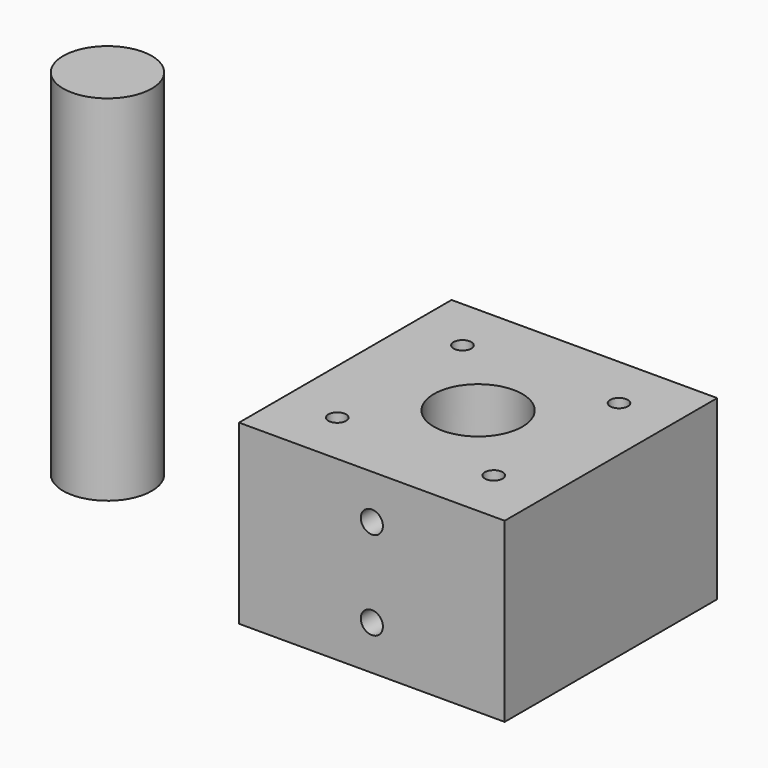
from build123d import *

# Parameters (mm, degrees)
F0_W     = 60
F0_H     = 60
F0_R     = 10
F1_DEPTH = 40
F2_R     = 2
F3_DEPTH = 20
F4_R     = 2.5
F5_DEPTH = 25
F6_DEPTH = 80
F7_R     = 2
F8_DEPTH = 20


with BuildPart() as f1:
    # F0 (on Top) → F1 (new body)
    with BuildSketch(Plane.XY):
        Rectangle(F0_W, F0_H)
        Circle(F0_R, mode=Mode.SUBTRACT)
    extrude(amount=F1_DEPTH)

    # F2 (on face) → F3 (cut)
    with BuildSketch(Plane(origin=(0, 0, 0), x_dir=(1, 0, 0), z_dir=(0, 0, -1))):
        with Locations((-25, 25)):
            Circle(F2_R)
        with Locations((25, 25)):
            Circle(F2_R)
        with Locations((-25, -25)):
            Circle(F2_R)
        with Locations((25, -25)):
            Circle(F2_R)
    extrude(amount=-F3_DEPTH, mode=Mode.SUBTRACT)

    # F4 (on face) → F5 (cut)
    with BuildSketch(Plane.XZ.offset(30)):
        with Locations((0, 30)):
            Circle(F4_R)
        with Locations((0, 10)):
            Circle(F4_R)
    extrude(amount=-F5_DEPTH, mode=Mode.SUBTRACT)

    # F7 (on face) → F8 (cut)
    with BuildSketch(Plane.XY.offset(40)):
        with Locations((-17.67767, 17.67767)):
            Circle(F7_R)
        with Locations((-17.67767, -17.67767)):
            Circle(F7_R)
        with Locations((17.67767, -17.67767)):
            Circle(F7_R)
        with Locations((17.67767, 17.67767)):
            Circle(F7_R)
    extrude(amount=-F8_DEPTH, mode=Mode.SUBTRACT)


with BuildPart() as f6:
    # F0 (on Top) → F6 (new body)
    with BuildSketch(Plane.XY):
        with Locations((-83.707973, 0)):
            Circle(F0_R)
    extrude(amount=F6_DEPTH)


solid = Compound([f1.part, f6.part])
